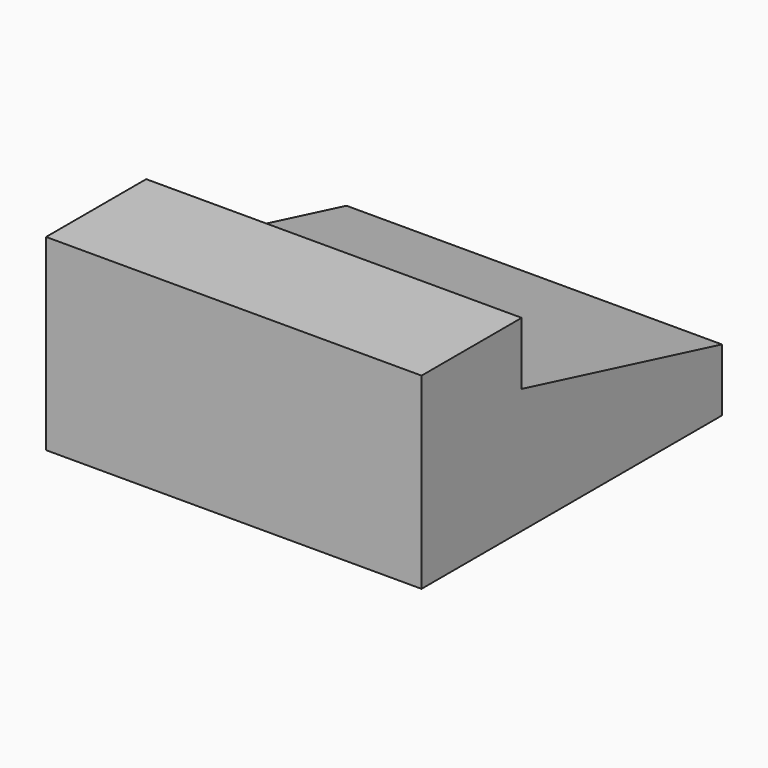
from build123d import *

# Parameters (mm, degrees)
F0_W     = 30
F0_H     = 30
F1_DEPTH = 15
F3_DEPTH = 30.001


with BuildPart() as f1:
    # F0 (on Top) → F1 (new body)
    with BuildSketch(Plane.XY):
        with Locations((-20.545393, 14.911969)):
            Rectangle(F0_W, F0_H)
    extrude(amount=F1_DEPTH)

    # F2 (on face) → F3 (cut, through all)
    with BuildSketch(Plane.YZ.offset(-5.545393)):
        Polygon((29.911969, 15), (9.911969, 15), (29.911969, 5), align=None)
        Polygon((29.911969, 5), (9.911969, 15), (9.911969, 10), align=None)
    extrude(amount=-F3_DEPTH, mode=Mode.SUBTRACT)


solid = f1.part
